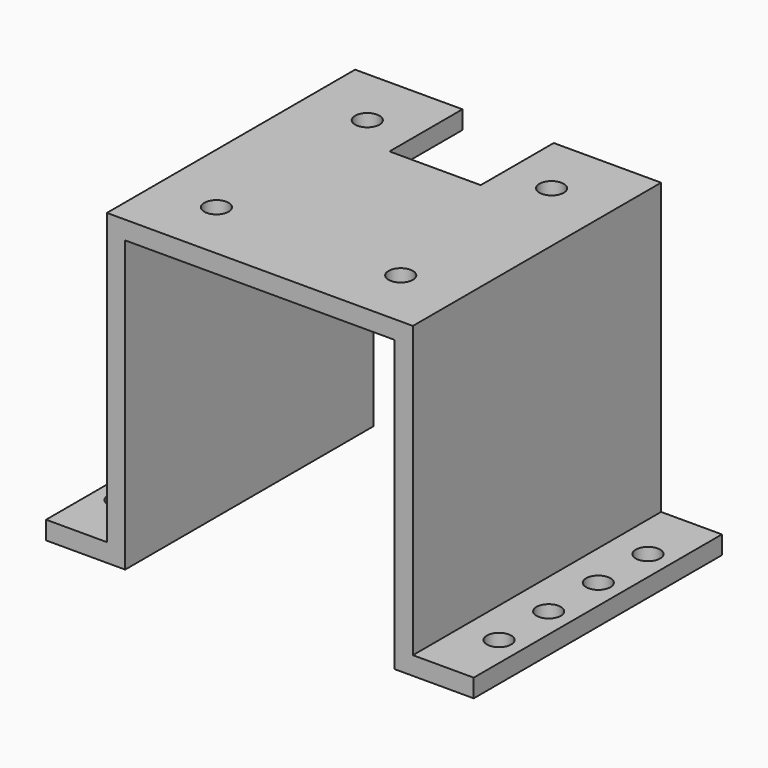
from build123d import *

# Parameters (mm, degrees)
SKETCH_W        = 70.3
SKETCH_H        = 51
PAD_DEPTH       = 50.65
SKETCH001_W     = 44.3
SKETCH001_H     = 47.65
SKETCH001_W_2   = 10
POCKET_DEPTH    = 51.001
SKETCH002_R     = 2
SKETCH002_W     = 15
SKETCH002_H     = 15
POCKET001_DEPTH = 50.651


with BuildPart() as part:
    # Sketch → Pad (new body)
    with BuildSketch(Plane.XY):
        with Locations((35.15, 25.5)):
            Rectangle(SKETCH_W, SKETCH_H)
    extrude(amount=PAD_DEPTH)

    # Sketch001 → Pocket (cut, through all)
    with BuildSketch(Plane.XZ):
        with Locations((35.15, 23.825)):
            Rectangle(SKETCH001_W, SKETCH001_H)
        with Locations((5, 26.825)):
            Rectangle(SKETCH001_W_2, SKETCH001_H)
        with Locations((65.3, 26.825)):
            Rectangle(SKETCH001_W_2, SKETCH001_H)
    extrude(amount=-POCKET_DEPTH, mode=Mode.SUBTRACT)

    # Sketch002 → Pocket001 (cut, through all)
    with BuildSketch(Plane.XY.offset(50.65)):
        with Locations((20, 41)):
            Circle(SKETCH002_R)
        with Locations((50.3, 41)):
            Circle(SKETCH002_R)
        with Locations((20, 10)):
            Circle(SKETCH002_R)
        with Locations((50.3, 10)):
            Circle(SKETCH002_R)
        with Locations((4, 40.8)):
            Circle(SKETCH002_R)
        with Locations((4, 30.6)):
            Circle(SKETCH002_R)
        with Locations((4, 20.4)):
            Circle(SKETCH002_R)
        with Locations((4, 10.2)):
            Circle(SKETCH002_R)
        with Locations((66.3, 40.8)):
            Circle(SKETCH002_R)
        with Locations((66.3, 30.6)):
            Circle(SKETCH002_R)
        with Locations((66.3, 20.4)):
            Circle(SKETCH002_R)
        with Locations((66.3, 10.2)):
            Circle(SKETCH002_R)
        with Locations((35.15, 43.5)):
            Rectangle(SKETCH002_W, SKETCH002_H)
    extrude(amount=-POCKET001_DEPTH, mode=Mode.SUBTRACT)


solid = part.part
